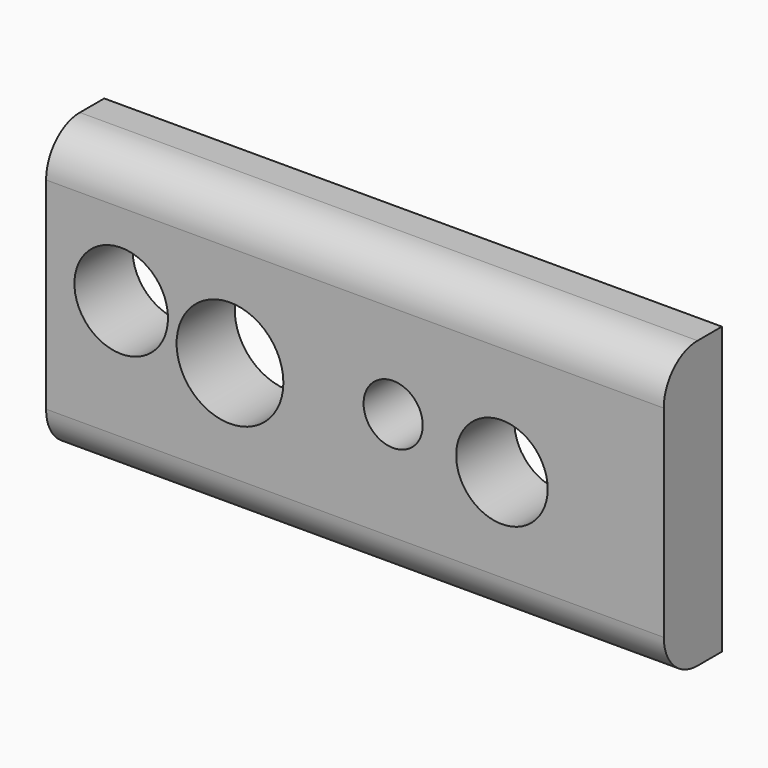
from build123d import *

# Parameters (mm, degrees)
F0_W     = 94.063151
F0_H     = 43.580622
F1_DEPTH = 11.07007
F2_R     = 6.969276
F2_R_2   = 4.505481
F2_R_3   = 8.13069
F2_R_4   = 7.123996
F3_DEPTH = 11.07007
F4_R     = 6.425985


with BuildPart() as f1:
    # F0 (on Front) → F1 (new body)
    with BuildSketch(Plane.XZ):
        with Locations((8.955018, -8.615909)):
            Rectangle(F0_W, F0_H)
    extrude(amount=F1_DEPTH)

    # F2 (on Front) → F3 (cut, through all)
    with BuildSketch(Plane.XZ):
        with Locations((31.341657, -9.856824)):
            Circle(F2_R)
        with Locations((14.776061, -7.497377)):
            Circle(F2_R_2)
        with Locations((-10.0703, -8.691281)):
            Circle(F2_R_3)
        with Locations((-26.636144, -5.740199)):
            Circle(F2_R_4)
    extrude(amount=F3_DEPTH, mode=Mode.SUBTRACT)

    # F4
    f4_edges = [f1.edges().sort_by_distance(p)[0] for p in [
        (8.955019, -11.07007, 13.174402),
        (8.955019, -11.07007, -30.40622),
    ]]
    fillet(f4_edges, radius=F4_R)


solid = f1.part
